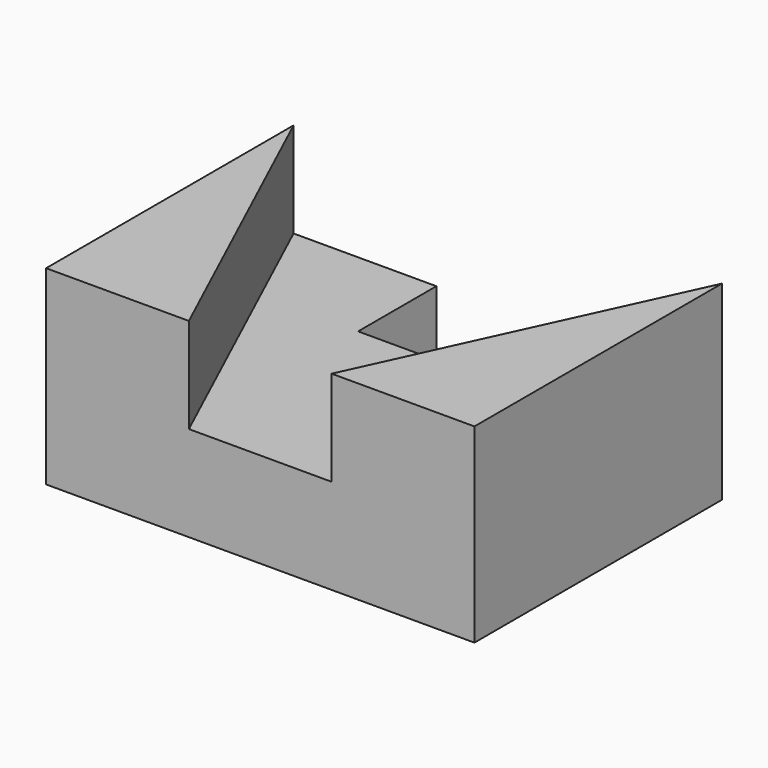
from build123d import *

# Parameters (mm, degrees)
F0_W     = 900
F0_H     = 650
F1_DEPTH = 200
F3_DEPTH = 200
F5_DEPTH = 200
F6_W     = 300
F6_H     = 205.535657
F7_DEPTH = 281.52459


with BuildPart() as f1:
    # F0 (on Top) → F1 (new body)
    with BuildSketch(Plane.XY):
        with Locations((32.520793, -87.737992)):
            Rectangle(F0_W, F0_H)
    extrude(amount=F1_DEPTH)

    # F2 (on face) → F3 (join)
    with BuildSketch(Plane.XY.offset(200)):
        Polygon((-117.479207, -412.737992), (-417.479207, 237.262008), (-417.479207, -412.737992), align=None)
    extrude(amount=F3_DEPTH)

    # F4 (on face) → F5 (join)
    with BuildSketch(Plane.XY.offset(200)):
        Polygon((482.520793, -412.737992), (482.520793, 237.262008), (182.520793, -412.737992), align=None)
    extrude(amount=F5_DEPTH)

    # F6 (on face) → F7 (cut)
    with BuildSketch(Plane.XY.offset(200)):
        with Locations((32.520793, 134.49418)):
            Rectangle(F6_W, F6_H)
    extrude(amount=-F7_DEPTH, mode=Mode.SUBTRACT)


solid = f1.part
